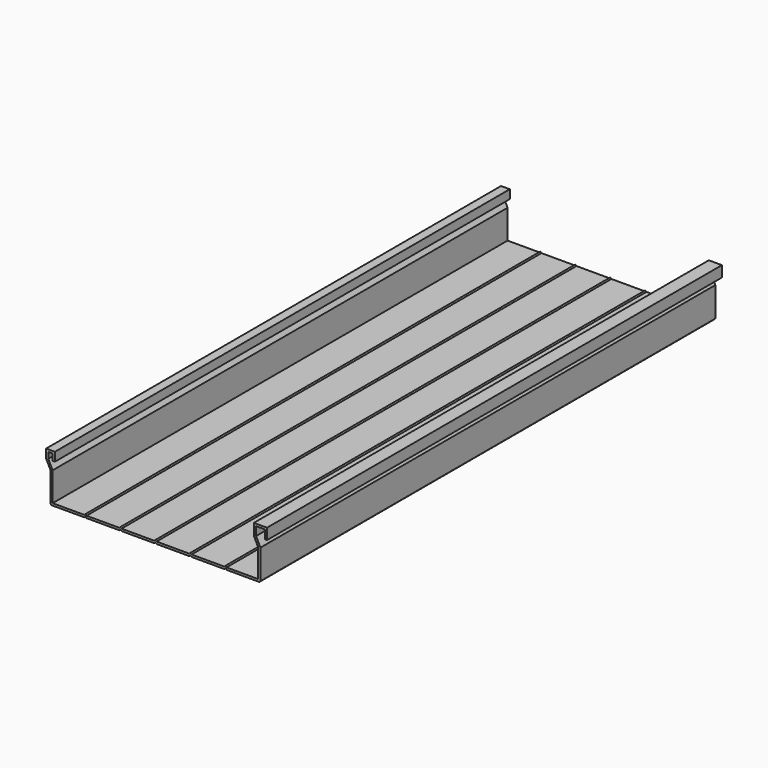
from build123d import *

# Parameters (mm, degrees)
F1_DEPTH = 825.5


with BuildPart() as f1:
    # F0 (on Front) → F1 (new body)
    with BuildSketch(Plane.XZ):
        Polygon((9.525, 57.15), (12.7, 57.15), (12.7, 69.85), (0, 69.85), (0, 57.15), (6.35, 44.45), (6.35, 1.5875), (7.9375, 0), (55.5625, 0), (57.15, 1.5875), (58.7375, 0), (106.3625, 0), (107.95, 1.5875), (109.5375, 0), (157.1625, 0), (158.75, 1.5875), (160.3375, 0), (207.9625, 0), (209.55, 1.5875), (211.1375, 0), (258.7625, 0), (260.35, 1.5875), (261.9375, 0), (309.5625, 0), (311.15, 1.5875), (311.15, 44.45), (304.8, 57.15), (304.8, 69.85), (317.5, 69.85), (317.5, 57.15), (320.675, 57.15), (320.675, 73.025), (301.625, 73.025), (301.625, 56.400484), (307.975, 43.700484), (307.975, 3.175), (261.9375, 3.175), (260.35, 4.7625), (258.7625, 3.175), (211.1375, 3.175), (209.55, 4.7625), (207.9625, 3.175), (160.3375, 3.175), (158.75, 4.7625), (157.1625, 3.175), (109.5375, 3.175), (107.95, 4.7625), (106.3625, 3.175), (58.7375, 3.175), (57.15, 4.7625), (55.5625, 3.175), (9.525, 3.175), (9.525, 45.199516), (3.175, 57.899516), (3.175, 66.675), (9.525, 66.675), align=None)
    extrude(amount=F1_DEPTH)


solid = f1.part
